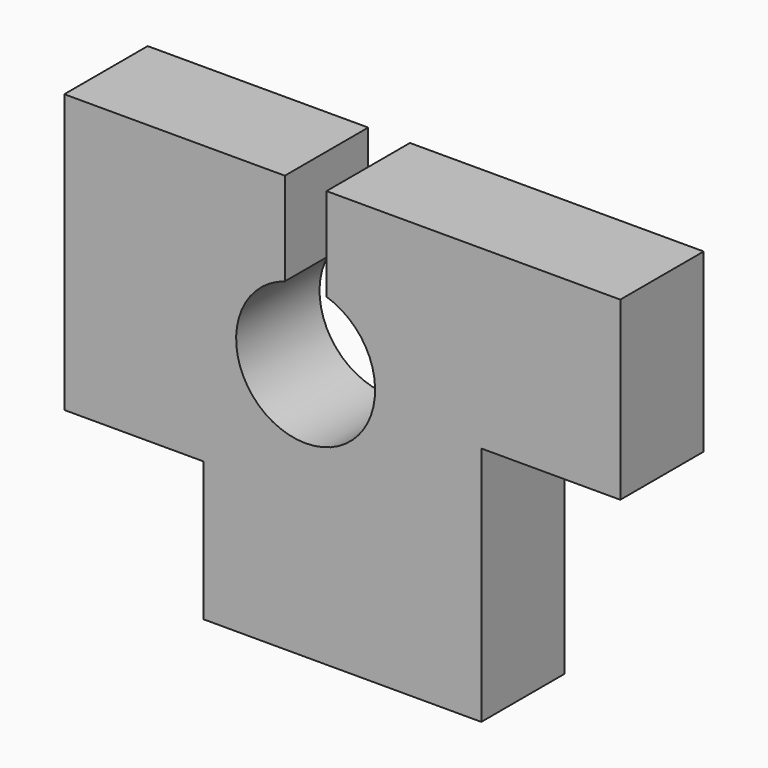
from build123d import *

# Parameters (mm, degrees)
F0_W     = 101.6
F0_H     = 76.2
F1_DEPTH = 19.05
F2_W     = 25.4
F2_H     = 25.4
F3_DEPTH = 19.05
F4_W     = 25.4
F4_H     = 43.99407
F5_DEPTH = 19.05
F6_R     = 12.7
F7_DEPTH = 19.05
F8_W     = 7.62
F8_H     = 25.4
F9_DEPTH = 19.05


with BuildPart() as f1:
    # F0 (on Front) → F1 (new body)
    with BuildSketch(Plane.XZ):
        with Locations((-62.676735, -0.094059)):
            Rectangle(F0_W, F0_H)
    extrude(amount=F1_DEPTH)

    # F2 (on face) → F3 (cut)
    with BuildSketch(Plane.XZ.offset(19.05)):
        with Locations((-100.776735, -25.494059)):
            Rectangle(F2_W, F2_H)
    extrude(amount=-F3_DEPTH, mode=Mode.SUBTRACT)

    # F4 (on face) → F5 (cut)
    with BuildSketch(Plane.XZ.offset(19.05)):
        with Locations((-24.576735, -16.197024)):
            Rectangle(F4_W, F4_H)
    extrude(amount=-F5_DEPTH, mode=Mode.SUBTRACT)

    # F6 (on face) → F7 (cut)
    with BuildSketch(Plane.XZ.offset(19.05)):
        with Locations((-69.379374, 8.886294)):
            Circle(F6_R)
    extrude(amount=-F7_DEPTH, mode=Mode.SUBTRACT)

    # F8 (on face) → F9 (cut, through all)
    with BuildSketch(Plane.XZ.offset(19.05)):
        with Locations((-69.371011, 25.305941)):
            Rectangle(F8_W, F8_H)
    extrude(amount=-F9_DEPTH, mode=Mode.SUBTRACT)


solid = f1.part
